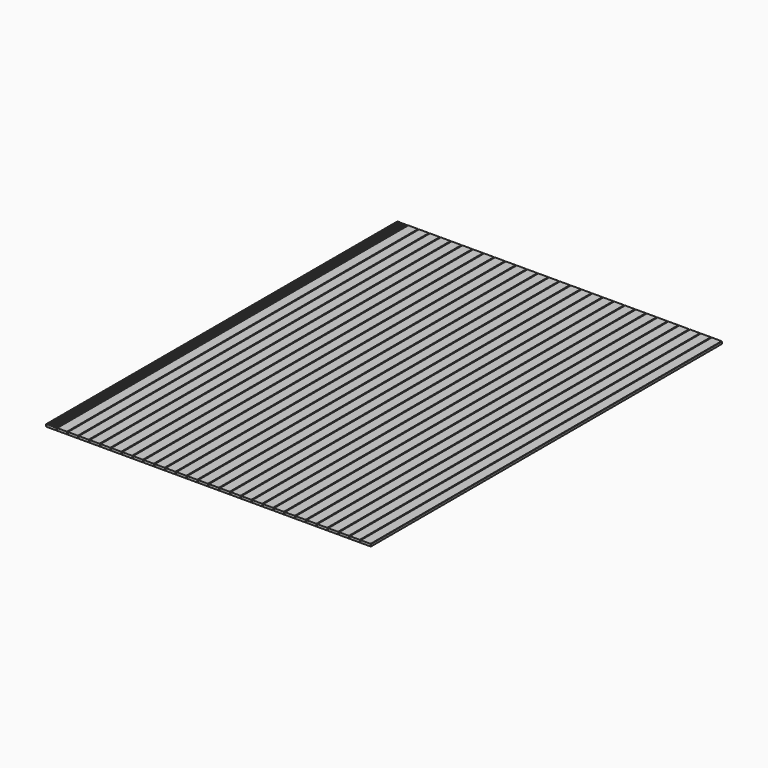
from build123d import *

# Parameters (mm, degrees)
F0_W     = 120
F0_H     = 5100
F1_DEPTH = 28
F2_SIZE  = 3
F4_DEPTH = 5100


with BuildPart() as f1:
    # F0 (on Top) → F1 (new body)
    with BuildSketch(Plane.XY):
        with Locations((-1.104389, 2297.393268)):
            Rectangle(F0_W, F0_H)
        with Locations((2266.895611, 2297.393268)):
            Rectangle(F0_W, F0_H)
        with Locations((376.895611, 2297.393268)):
            Rectangle(F0_W, F0_H)
        with Locations((2140.895611, 2297.393268)):
            Rectangle(F0_W, F0_H)
        with Locations((880.895611, 2297.393268)):
            Rectangle(F0_W, F0_H)
        with Locations((1636.895611, 2297.393268)):
            Rectangle(F0_W, F0_H)
        with Locations((1006.895611, 2297.393268)):
            Rectangle(F0_W, F0_H)
        with Locations((2770.895611, 2297.393268)):
            Rectangle(F0_W, F0_H)
        with Locations((2014.895611, 2297.393268)):
            Rectangle(F0_W, F0_H)
        with Locations((1132.895611, 2297.393268)):
            Rectangle(F0_W, F0_H)
        with Locations((628.895611, 2297.393268)):
            Rectangle(F0_W, F0_H)
        with Locations((754.895611, 2297.393268)):
            Rectangle(F0_W, F0_H)
        with Locations((1384.895611, 2297.393268)):
            Rectangle(F0_W, F0_H)
        with Locations((1258.895611, 2297.393268)):
            Rectangle(F0_W, F0_H)
        with Locations((502.895611, 2297.393268)):
            Rectangle(F0_W, F0_H)
        with Locations((3022.895611, 2297.393268)):
            Rectangle(F0_W, F0_H)
        with Locations((2644.895611, 2297.393268)):
            Rectangle(F0_W, F0_H)
        with Locations((1510.895611, 2297.393268)):
            Rectangle(F0_W, F0_H)
        with Locations((1762.895611, 2297.393268)):
            Rectangle(F0_W, F0_H)
        with Locations((2896.895611, 2297.393268)):
            Rectangle(F0_W, F0_H)
        with Locations((2518.895611, 2297.393268)):
            Rectangle(F0_W, F0_H)
        with Locations((2392.895611, 2297.393268)):
            Rectangle(F0_W, F0_H)
        with Locations((1888.895611, 2297.393268)):
            Rectangle(F0_W, F0_H)
        with Locations((124.895611, 2297.393268)):
            Rectangle(F0_W, F0_H)
        with Locations((250.895611, 2297.393268)):
            Rectangle(F0_W, F0_H)
        with Locations((3148.895611, 2297.393268)):
            Rectangle(F0_W, F0_H)
        with Locations((3274.895611, 2297.393268)):
            Rectangle(F0_W, F0_H)
        with Locations((3400.895611, 2297.393268)):
            Rectangle(F0_W, F0_H)
        with Locations((3526.895611, 2297.393268)):
            Rectangle(F0_W, F0_H)
        with Locations((3652.895611, 2297.393268)):
            Rectangle(F0_W, F0_H)
    extrude(amount=F1_DEPTH)

    # F2
    f2_edges = [f1.edges().sort_by_distance(p)[0] for p in [
        (-61.104389, 2297.393268, 28),
        (58.895611, 2297.393268, 28),
        (64.895611, 2297.393268, 28),
        (184.895611, 2297.393268, 28),
        (190.895611, 2297.393268, 28),
        (310.895611, 2297.393268, 28),
        (316.895611, 2297.393268, 28),
        (436.895611, 2297.393268, 28),
        (442.895611, 2297.393268, 28),
        (562.895611, 2297.393268, 28),
        (568.895611, 2297.393268, 28),
        (688.895611, 2297.393268, 28),
        (694.895611, 2297.393268, 28),
        (814.895611, 2297.393268, 28),
        (820.895611, 2297.393268, 28),
        (946.895611, 2297.393268, 28),
        (940.895611, 2297.393268, 28),
        (1066.895611, 2297.393268, 28),
        (1072.895611, 2297.393268, 28),
        (1192.895611, 2297.393268, 28),
        (1198.895611, 2297.393268, 28),
        (1318.895611, 2297.393268, 28),
        (1324.895611, 2297.393268, 28),
        (1444.895611, 2297.393268, 28),
        (1450.895611, 2297.393268, 28),
        (1570.895611, 2297.393268, 28),
        (1576.895611, 2297.393268, 28),
        (1696.895611, 2297.393268, 28),
        (1702.895611, 2297.393268, 28),
        (1822.895611, 2297.393268, 28),
        (1828.895611, 2297.393268, 28),
        (1948.895611, 2297.393268, 28),
        (1954.895611, 2297.393268, 28),
        (2074.895611, 2297.393268, 28),
        (2080.895611, 2297.393268, 28),
        (2200.895611, 2297.393268, 28),
        (2206.895611, 2297.393268, 28),
        (2326.895611, 2297.393268, 28),
        (2332.895611, 2297.393268, 28),
        (2452.895611, 2297.393268, 28),
        (2458.895611, 2297.393268, 28),
        (2578.895611, 2297.393268, 28),
        (2584.895611, 2297.393268, 28),
        (2704.895611, 2297.393268, 28),
        (2710.895611, 2297.393268, 28),
        (2830.895611, 2297.393268, 28),
        (2836.895611, 2297.393268, 28),
        (2956.895611, 2297.393268, 28),
        (2962.895611, 2297.393268, 28),
        (3082.895611, 2297.393268, 28),
        (3088.895611, 2297.393268, 28),
        (3214.895611, 2297.393268, 28),
        (3208.895611, 2297.393268, 28),
        (3334.895611, 2297.393268, 28),
        (3340.895611, 2297.393268, 28),
        (3466.895611, 2297.393268, 28),
        (3460.895611, 2297.393268, 28),
        (3592.895611, 2297.393268, 28),
        (3586.895611, 2297.393268, 28),
        (3712.895611, 2297.393268, 28),
    ]]
    chamfer(f2_edges, length=F2_SIZE)

    # F3 (on face) → F4 (cut)
    with BuildSketch(Plane.XZ.offset(252.606732)):
        Polygon((-36.943098, 28), (-47.943098, 28), (-44.943098, 25), (-39.943098, 25), align=None)
        Polygon((-16.943098, 28), (-26.943098, 28), (-23.943098, 25), (-19.943098, 25), align=None)
        Polygon((4.056902, 28), (-6.943098, 28), (-3.943098, 25), (1.056902, 25), align=None)
        Polygon((22.056902, 25), (25.056902, 28), (14.056902, 28), (17.056902, 25), align=None)
        Polygon((43.056902, 25), (46.056902, 28), (35.056902, 28), (38.056902, 25), align=None)
    extrude(amount=-F4_DEPTH, mode=Mode.SUBTRACT)


solid = f1.part
